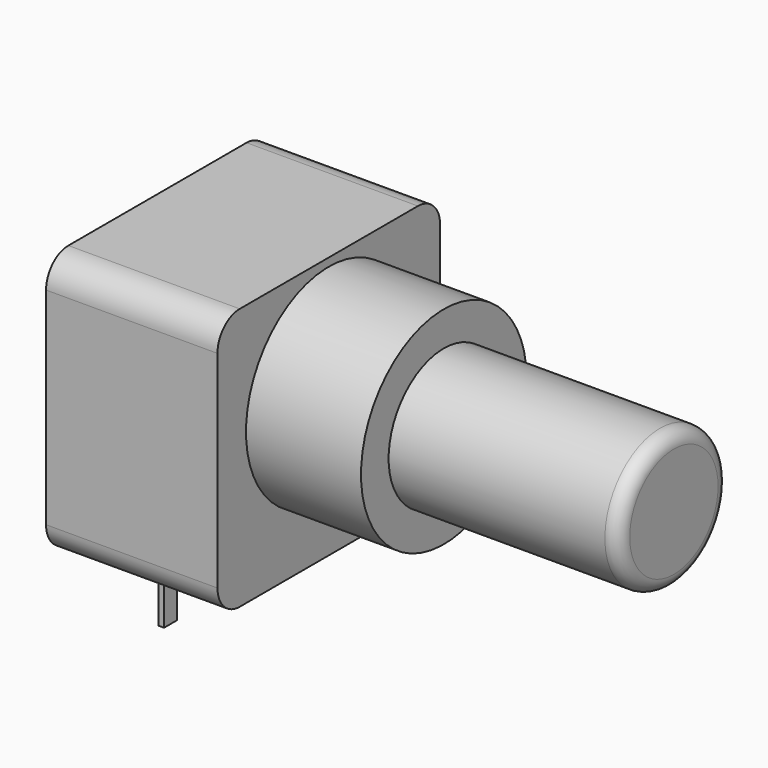
from build123d import *

# Parameters (mm, degrees)
SKETCH001_R       = 4.5
PAD001_DEPTH      = 5
SKETCH003_W       = 0.233334
SKETCH003_H       = 0.7
PAD002_DEPTH      = 8.7
PAD002_DEPTH_BACK = 3
SKETCH004_R       = 3
PAD003_DEPTH      = 10
FILLET_R          = 0.6
SKETCH_W          = 12.1
SKETCH_H          = 11.4
PAD_DEPTH         = 7.45
FILLET001_R       = 1.21


with BuildPart() as pad001:
    # Sketch001 → Pad001 (new body)
    with BuildSketch(Plane.YZ.offset(10)):
        with Locations((2.5, 6.75)):
            Circle(SKETCH001_R)
    extrude(amount=-PAD001_DEPTH)


with BuildPart() as pad002:
    # Sketch003 → Pad002 (new body, two sides)
    with BuildSketch(Plane(origin=(0, 0, 0), x_dir=(-1, 0, 0), z_dir=(0, 0, 1))) as pad002_sk:
        Rectangle(SKETCH003_W, SKETCH003_H)
        with Locations((0, -2.5)):
            Rectangle(SKETCH003_W, SKETCH003_H)
        with Locations((0, -5)):
            Rectangle(SKETCH003_W, SKETCH003_H)
    extrude(amount=PAD002_DEPTH)
    extrude(pad002_sk.sketch, amount=-PAD002_DEPTH_BACK)


with BuildPart() as fillet_body:
    # Sketch004 → Pad003 (new body)
    with BuildSketch(Plane.YZ.offset(10)):
        with Locations((2.5, 6.75)):
            Circle(SKETCH004_R)
    extrude(amount=PAD003_DEPTH)

    # Fillet
    fillet_edges = [fillet_body.edges().sort_by_distance(p)[0] for p in [
        (20, -0.5, 6.75),
    ]]
    fillet(fillet_edges, radius=FILLET_R)


with BuildPart() as fillet001:
    # Sketch → Pad (new body)
    with BuildSketch(Plane.YZ.offset(-2.45)):
        with Locations((2.5, 5.9)):
            Rectangle(SKETCH_W, SKETCH_H)
    extrude(amount=PAD_DEPTH)

    # Fillet001
    fillet001_edges = [fillet001.edges().sort_by_distance(p)[0] for p in [
        (1.275, -3.55, 11.6),
        (1.275, 8.55, 11.6),
        (1.275, -3.55, 0.2),
        (1.275, 8.55, 0.2),
    ]]
    fillet(fillet001_edges, radius=FILLET001_R)


solid = Compound([pad001.part, pad002.part, fillet_body.part, fillet001.part])
